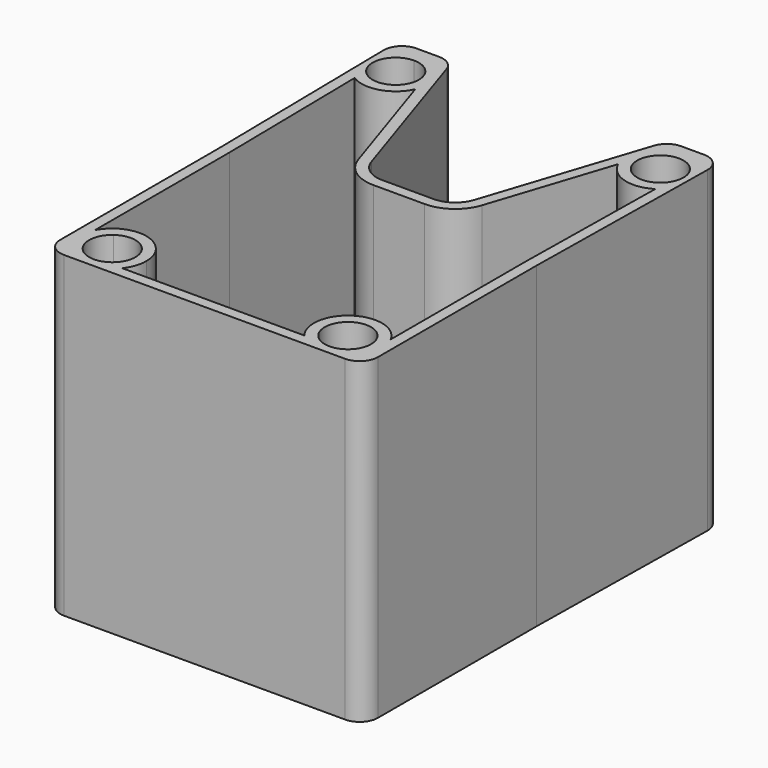
from build123d import *

# Parameters (mm, degrees)
F0_R     = 2.55
F0_W     = 7.4266694462
F0_H     = 7.0167635567
F0_W_2   = 8.4439013153
F0_H_2   = 2.6164194569
F0_H_3   = 1.3082097284
F1_DEPTH = 35
F2_T     = -1.2


with BuildPart() as f1:
    # F0 (on Top) → F1 (new body)
    with BuildSketch(Plane.XY):
        with BuildLine():
            Line((12.5671070093, 2.2891284898), (12.5671070093, -4.3818661943))
            Line((12.5671070093, -4.3818661943), (27.0671070093, -4.3818661943))
            Line((27.0671070093, -4.3818661943), (27.0671070093, -2.9131628679))
            ThreePointArc((27.0671070093, -2.9131628679), (25.1741554355, -3.3857602737), (23.5011908077, -2.3818661943))
            ThreePointArc((23.5011908077, -2.3818661943), (23.7463344607, 0.9390381298), (27.0671070093, 1.1859604264))
            ThreePointArc((27.0671070093, 1.1859604264), (27.8271392688, 0.2839446425), (28.0999395649, -0.8636012208))
            ThreePointArc((28.0999395649, -0.8636012208), (27.9713863773, -1.6630356049), (27.5986883221, -2.3818661943))
            Line((27.5986883221, -2.3818661943), (30.0671070093, -2.3818661943))
            Line((30.0671070093, -2.3818661943), (30.0671070093, 19.4367093172))
            Line((30.0671070093, 19.4367093172), (30.4183758122, 42.5877915199))
            ThreePointArc((30.4183758122, 42.5877915199), (29.8435067876, 44.0215787509), (28.418605989, 44.6181338057))
            Line((28.418605989, 44.6181338057), (25.8984067957, 44.6181338057))
            ThreePointArc((25.8984067957, 44.6181338057), (24.724883132, 44.2376529352), (23.9978627735, 43.2409760165))
            Line((23.9978627735, 43.2409760165), (18.2440858049, 25.6838704894))
            ThreePointArc((18.2440858049, 25.6838704894), (17.1535552671, 24.1888551114), (15.3932697716, 23.6181338057))
            Line((15.3932697716, 23.6181338057), (12.5671070093, 23.6181338057))
            Line((12.5671070093, 23.6181338057), (12.5671070093, 13.2305212319))
            Line((12.5671070093, 13.2305212319), (19.9937764555, 13.2305212319))
            Line((19.9937764555, 13.2305212319), (19.9937764555, 6.2137576751))
            Line((19.9937764555, 6.2137576751), (28.4376777709, 6.2137576751))
            Line((28.4376777709, 6.2137576751), (28.4376777709, 3.5973382182))
            Line((28.4376777709, 3.5973382182), (19.9937764555, 3.5973382182))
            Line((19.9937764555, 3.5973382182), (19.9937764555, 2.2891284898))
            Line((19.9937764555, 2.2891284898), (12.5671070093, 2.2891284898))
        make_face()
        with Locations((27.1516455619, 40.181864053)):
            Circle(F0_R, mode=Mode.SUBTRACT)
        with BuildLine():
            Line((-1.9328929907, -4.3818661943), (12.5671070093, -4.3818661943))
            Line((12.5671070093, -4.3818661943), (12.5671070093, 2.2891284898))
            Line((12.5671070093, 2.2891284898), (5.1404375632, 2.2891284898))
            Line((5.1404375632, 2.2891284898), (5.1404375632, 3.5973382182))
            Line((5.1404375632, 3.5973382182), (-3.3034637522, 3.5973382182))
            Line((-3.3034637522, 3.5973382182), (-3.3034637522, 6.2137576751))
            Line((-3.3034637522, 6.2137576751), (5.1404375632, 6.2137576751))
            Line((5.1404375632, 6.2137576751), (5.1404375632, 13.2305212319))
            Line((5.1404375632, 13.2305212319), (12.5671070093, 13.2305212319))
            Line((12.5671070093, 13.2305212319), (12.5671070093, 23.6181338057))
            Line((12.5671070093, 23.6181338057), (9.7409442471, 23.6181338057))
            ThreePointArc((9.7409442471, 23.6181338057), (7.9806587516, 24.1888551114), (6.8901282137, 25.6838704894))
            Line((6.8901282137, 25.6838704894), (1.1363512452, 43.2409760165))
            ThreePointArc((1.1363512452, 43.2409760165), (0.4093308866, 44.2376529352), (-0.764192777, 44.6181338057))
            Line((-0.764192777, 44.6181338057), (-2.0242923737, 44.6181338057))
            Line((-2.0242923737, 44.6181338057), (-3.2843919703, 44.6181338057))
            Line((-3.2843919703, 44.6181338057), (-3.2843919703, 42.6181338057))
            Line((-3.2843919703, 42.6181338057), (-5.2841617935, 42.5877915199))
            Line((-5.2841617935, 42.5877915199), (-4.9328929907, 19.4367093172))
            Line((-4.9328929907, 19.4367093172), (-4.9328929907, -2.3818661943))
            Line((-4.9328929907, -2.3818661943), (-2.4644743034, -2.3818661943))
            ThreePointArc((-2.4644743034, -2.3818661943), (-2.9378845991, -0.4878170914), (-1.9328929907, 1.1859604264))
            ThreePointArc((-1.9328929907, 1.1859604264), (0.7318203171, 1.4135984832), (2.1342744538, -0.8636012208))
            ThreePointArc((2.1342744538, -0.8636012208), (2.0057212662, -1.6630356049), (1.633023211, -2.3818661943))
            ThreePointArc((1.633023211, -2.3818661943), (-0.0399414169, -3.3857602737), (-1.9328929907, -2.9131628679))
            Line((-1.9328929907, -2.9131628679), (-1.9328929907, -4.3818661943))
        make_face()
        with BuildLine():
            ThreePointArc((0.5325684568, 40.181864053), (-3.8181265316, 38.3763177205), (-2.0242923737, 42.7318548234))
            ThreePointArc((-2.0242923737, 42.7318548234), (-0.2167365548, 41.9874103855), (0.5325684568, 40.181864053))
        make_face(mode=Mode.SUBTRACT)
        with BuildLine():
            Line((27.0671070093, -2.9131628679), (27.0671070093, -4.3818661943))
            Line((27.0671070093, -4.3818661943), (28.0671070093, -4.3818661943))
            ThreePointArc((28.0671070093, -4.3818661943), (29.4813205717, -3.7960797567), (30.0671070093, -2.3818661943))
            Line((30.0671070093, -2.3818661943), (27.5986883221, -2.3818661943))
            ThreePointArc((27.5986883221, -2.3818661943), (27.3525789154, -2.6672063249), (27.0671070093, -2.9131628679))
        make_face()
        with BuildLine():
            Line((-2.9328929907, -4.3818661943), (-1.9328929907, -4.3818661943))
            Line((-1.9328929907, -4.3818661943), (-1.9328929907, -2.9131628679))
            ThreePointArc((-1.9328929907, -2.9131628679), (-2.2183648967, -2.6672063249), (-2.4644743034, -2.3818661943))
            Line((-2.4644743034, -2.3818661943), (-4.9328929907, -2.3818661943))
            ThreePointArc((-4.9328929907, -2.3818661943), (-4.347106553, -3.7960797567), (-2.9328929907, -4.3818661943))
        make_face()
        with BuildLine():
            ThreePointArc((-3.2843919703, 44.6181338057), (-4.7092927689, 44.0215787509), (-5.2841617935, 42.5877915199))
            Line((-5.2841617935, 42.5877915199), (-3.2843919703, 42.6181338057))
            Line((-3.2843919703, 42.6181338057), (-3.2843919703, 44.6181338057))
        make_face()
        with Locations((8.8537722862, 9.7221394535)):
            Rectangle(F0_W, F0_H)
        with Locations((16.2804417324, 9.7221394535)):
            Rectangle(F0_W, F0_H)
        with Locations((24.2157271132, 4.9055479467)):
            Rectangle(F0_W_2, F0_H_2)
        with Locations((8.8537722862, 4.9055479467)):
            Rectangle(F0_W, F0_H_2)
        with Locations((0.9184869055, 4.9055479467)):
            Rectangle(F0_W_2, F0_H_2)
        with Locations((8.8537722862, 2.943233354)):
            Rectangle(F0_W, F0_H_3)
        with Locations((16.2804417324, 4.9055479467)):
            Rectangle(F0_W, F0_H_2)
        with Locations((16.2804417324, 2.943233354)):
            Rectangle(F0_W, F0_H_3)
    extrude(amount=F1_DEPTH)

    # F2
    f2_openings = [f1.faces().sort_by_distance(p)[0] for p in [
        (12.567107, 16.00407, 35),
    ]]
    offset(amount=F2_T, openings=f2_openings)


solid = f1.part
